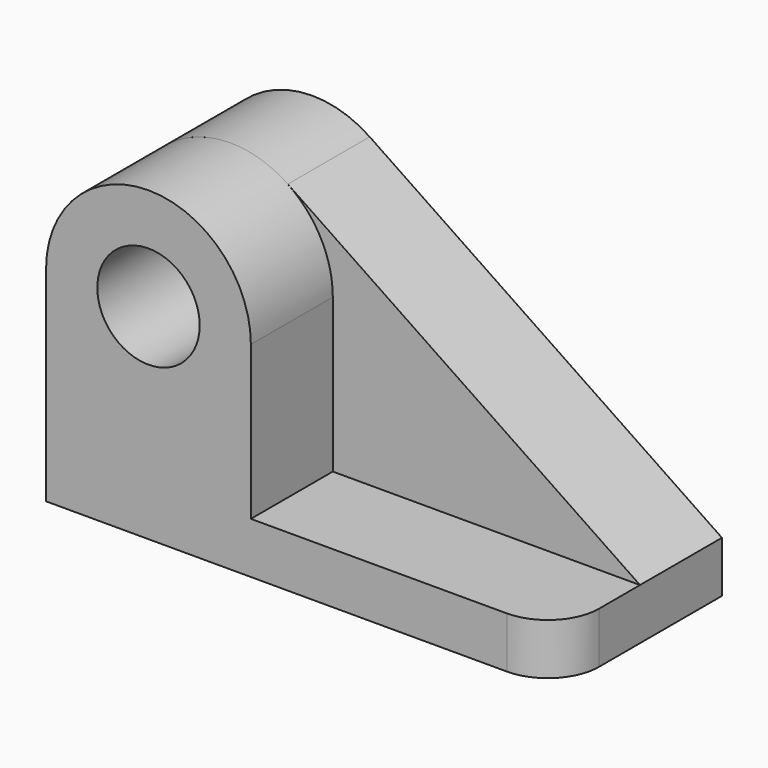
from build123d import *

# Parameters (mm, degrees)
F0_R     = 12.7
F1_DEPTH = 25.4
F2_R     = 12.7
F3_DEPTH = 25.4
F4_R     = 12.7


with BuildPart() as f1:
    # F0 (on Front) → F1 (new body)
    with BuildSketch(Plane.XZ):
        with BuildLine():
            ThreePointArc((-48.290764, 11.007857), (-22.890764, -14.392143), (2.509236, 11.007857))
            ThreePointArc((2.509236, 11.007857), (-0.454165, 22.914117), (-8.652891, 32.042186))
            ThreePointArc((-8.652891, 32.042186), (-34.797023, 33.444457), (-48.290764, 11.007857))
        make_face()
        with Locations((-22.890764, 11.007857)):
            Circle(F0_R, mode=Mode.SUBTRACT)
        with BuildLine():
            ThreePointArc((-8.652891, 32.042186), (-0.454165, 22.914117), (2.509236, 11.007857))
            ThreePointArc((2.509236, 11.007857), (-22.890764, -14.392143), (-48.290764, 11.007857))
            Line((-48.290764, 11.007857), (-48.290764, -39.792143))
            Line((-48.290764, -39.792143), (78.709236, -39.792143))
            Line((78.709236, -39.792143), (78.709236, -27.092143))
            Line((78.709236, -27.092143), (-8.652891, 32.042186))
        make_face()
    extrude(amount=F1_DEPTH)

    # F2 (on face) → F3 (join)
    with BuildSketch(Plane.XZ.offset(25.4)):
        with BuildLine():
            Line((2.509236, -27.092143), (2.509236, 11.007857))
            ThreePointArc((2.509236, 11.007857), (-22.890764, 36.407857), (-48.290764, 11.007857))
            Line((-48.290764, 11.007857), (-48.290764, -27.092143))
            Line((-48.290764, -27.092143), (-48.290764, -39.792143))
            Line((-48.290764, -39.792143), (78.709236, -39.792143))
            Line((78.709236, -39.792143), (78.709236, -27.092143))
            Line((78.709236, -27.092143), (2.509236, -27.092143))
        make_face()
        with Locations((-22.890764, 11.007857)):
            Circle(F2_R, mode=Mode.SUBTRACT)
    extrude(amount=F3_DEPTH)

    # F4
    f4_edges = [f1.edges().sort_by_distance(p)[0] for p in [
        (78.709236, -50.8, -33.442143),
    ]]
    fillet(f4_edges, radius=F4_R)


solid = f1.part
